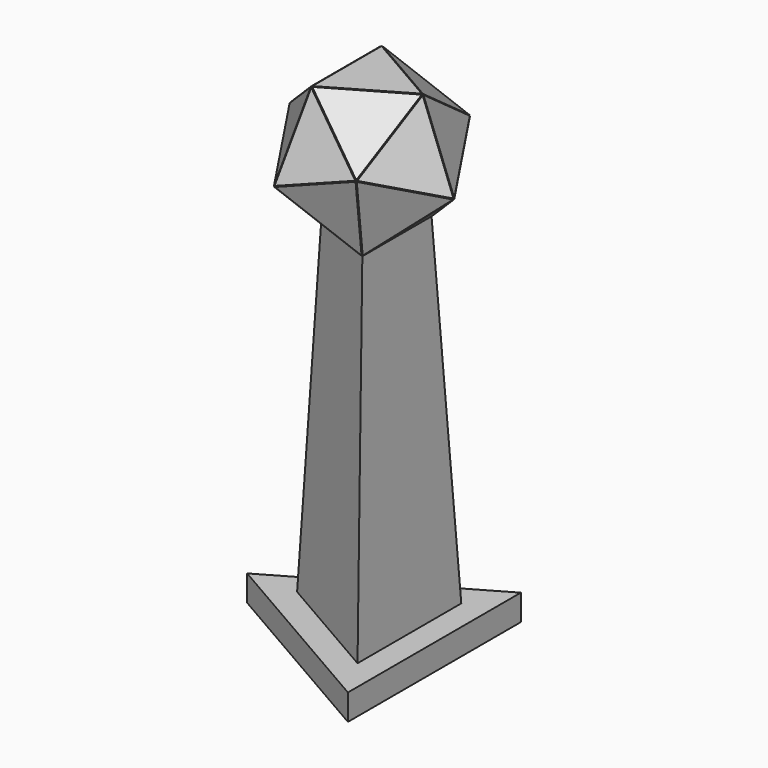
from build123d import *

# Parameters (mm, degrees)
F1_DEPTH  = 3
F4_ANGLE  = 138.2
F7_ANGLE  = 138.2
F10_ANGLE = 138.2
F14_ANGLE = -138.2
F16_ANGLE = 138.2
F19_ANGLE = 138.2
F21_COUNT = 3
F22_COUNT = 3
F23_COUNT = 3
F26_ANGLE = -138.2
F27_COUNT = 3
F30_ANGLE = 138.2
F31_COUNT = 3
F34_ANGLE = -138.2
F35_COUNT = 3
F39_ANGLE = -138.2
F45_DEPTH = 30


with BuildPart() as f1:
    # F0 (on Top) → F1 (new body)
    with BuildSketch(Plane.XY):
        Polygon((28.8675134595, -50), (28.8675134595, 50), (-57.735026919, 0), align=None)
    extrude(amount=F1_DEPTH)


with BuildPart() as f2_1:
    # F2: copy of F1
    add(f1.part)


with BuildPart() as f2_1_1:
    # F4: moved
    add(f2_1.part.rotate(Axis((-14.4337567297, -25, 1.5), (0.8660254038, -0.5, 0)), F4_ANGLE))


with BuildPart() as f5_1:
    # F5: copy of F1
    add(f1.part)


with BuildPart() as f5_1_1:
    # F7: moved
    add(f5_1.part.rotate(Axis((28.8675134595, 0, 1.5), (0, 1, 0)), F7_ANGLE))


with BuildPart() as f8_1:
    # F8: copy of F1
    add(f1.part)


with BuildPart() as f8_1_1:
    # F10: moved
    add(f8_1.part.rotate(Axis((-14.4337567297, 25, 1.5), (-0.8660254038, -0.5, 0)), F10_ANGLE))


with BuildPart() as f13_1:
    # F13: copy of F2_1
    add(f2_1_1.part)


with BuildPart() as f13_1_1:
    # F14: moved
    add(f13_1.part.rotate(Axis((-52.2244206653, -40.4553499881, 30.3617025842), (-0.1102121251, 0.8091069998, -0.5772340517)), F14_ANGLE))


with BuildPart() as f15_1:
    # F15: copy of F8_1
    add(f8_1_1.part)


with BuildPart() as f15_1_1:
    # F16: moved
    add(f15_1.part.rotate(Axis((-52.2244206653, 40.4553499881, 30.3617025842), (-0.1102121251, -0.8091069998, -0.5772340517)), F16_ANGLE))


with BuildPart() as f18_1:
    # F18: copy of F8_1
    add(f8_1_1.part)


with BuildPart() as f8_1_2:
    # F19: moved
    add(f8_1_1.part.rotate(Axis((-8.9231504761, 65.4553499881, 30.3617025842), (-0.7558132787, 0.3091069998, 0.5772340517)), F19_ANGLE))


with BuildPart() as f21_1:
    # F21: instance of F18_1
    add(f18_1.part.rotate(Axis((0, 0, 83.6571007967), (0, 0, 1)), 1 * 360 / F21_COUNT))


with BuildPart() as f21_2:
    # F21: instance of F18_1
    add(f18_1.part.rotate(Axis((0, 0, 83.6571007967), (0, 0, 1)), 2 * 360 / F21_COUNT))


with BuildPart() as f22_1:
    # F22: instance of F15_1
    add(f15_1_1.part.rotate(Axis((0, 0, 83.6571007967), (0, 0, 1)), 1 * 360 / F22_COUNT))


with BuildPart() as f22_2:
    # F22: instance of F15_1
    add(f15_1_1.part.rotate(Axis((0, 0, 83.6571007967), (0, 0, 1)), 2 * 360 / F22_COUNT))


with BuildPart() as f23_1:
    # F23: instance of F8_1
    add(f8_1_2.part.rotate(Axis((0, 0, 83.6571007967), (0, 0, 1)), 1 * 360 / F23_COUNT))


with BuildPart() as f23_2:
    # F23: instance of F8_1
    add(f8_1_2.part.rotate(Axis((0, 0, 83.6571007967), (0, 0, 1)), 2 * 360 / F23_COUNT))


with BuildPart() as f25_1:
    # F25: copy of F15_1
    add(f15_1_1.part)


with BuildPart() as f25_1_1:
    # F26: moved
    add(f25_1.part.rotate(Axis((-70.0765319079, 40.4654137064, 77.066113756), (0.4672543499, 0.8089057254, -0.3568541718)), F26_ANGLE))


with BuildPart() as f27_1:
    # F27: instance of F25_1
    add(f25_1_1.part.rotate(Axis((0, 0, 83.6571007967), (0, 0, 1)), 1 * 360 / F27_COUNT))


with BuildPart() as f27_2:
    # F27: instance of F25_1
    add(f25_1_1.part.rotate(Axis((0, 0, 83.6571007967), (0, 0, 1)), 2 * 360 / F27_COUNT))


with BuildPart() as f28_1:
    # F28: copy of F13_1
    add(f13_1_1.part)


with BuildPart() as f28_1_1:
    # F30: moved
    add(f28_1.part.rotate(Axis((-70.0765319079, -40.4654137064, 77.066113756), (0.4672543499, -0.8089057254, -0.3568541718)), F30_ANGLE))


with BuildPart() as f31_1:
    # F31: instance of F28_1
    add(f28_1_1.part.rotate(Axis((0, 0, 83.6571007967), (0, 0, 1)), 1 * 360 / F31_COUNT))


with BuildPart() as f31_2:
    # F31: instance of F28_1
    add(f28_1_1.part.rotate(Axis((0, 0, 83.6571007967), (0, 0, 1)), 2 * 360 / F31_COUNT))


with BuildPart() as f32_1:
    # F32: copy of F28_1
    add(f28_1_1.part)


with BuildPart() as f28_1_2:
    # F34: moved
    add(f28_1_1.part.rotate(Axis((-61.1744043061, -25.0263489681, 123.7821431695), (-0.645296902, 0.5001244306, -0.5774664165)), F34_ANGLE))


with BuildPart() as f35_1:
    # F35: instance of F28_1
    add(f28_1_2.part.rotate(Axis((0, 0, 83.6571007967), (0, 0, 1)), 1 * 360 / F35_COUNT))


with BuildPart() as f35_2:
    # F35: instance of F28_1
    add(f28_1_2.part.rotate(Axis((0, 0, 83.6571007967), (0, 0, 1)), 2 * 360 / F35_COUNT))


with BuildPart() as f36_1:
    # F36: copy of F28_1
    add(f28_1_2.part)


with BuildPart() as f37_1:
    # F37: copy of F28_1
    add(f28_1_2.part)


with BuildPart() as f28_1_3:
    # F39: moved
    add(f28_1_2.part.rotate(Axis((-28.9167455123, -0.0328565628, 152.6742646909), (-0.0001437269, 0.999999919, 0.000376016)), F39_ANGLE))


with BuildPart() as f37_1_1:
    # F39: moved
    add(f37_1.part.rotate(Axis((-28.9167455123, -0.0328565628, 152.6742646909), (-0.0001437269, 0.999999919, 0.000376016)), F39_ANGLE))


with BuildPart() as f1_1:
    add(f1.part)

    # F40 (on face) → F43 section 0
    with BuildSketch(Plane(origin=(0, 0, 0), x_dir=(1, 0, 0), z_dir=(0, 0, -1))):
        Polygon((28.8675134595, 50), (-57.735026919, 0), (28.8675134595, -50), align=None)
    # F42 (on offset) → F43 section 1
    with BuildSketch(Plane.XY.offset(-400)):
        Polygon((43.3012701892, -75), (43.3012701892, 75), (-86.6025403784, 0), align=None)
    loft()

    # F44 (on face) → F45 (join)
    with BuildSketch(Plane(origin=(0, 0, -400), x_dir=(1, 0, 0), z_dir=(0, 0, -1))):
        Polygon((72.1687836487, -125), (72.1687836487, 125), (-144.3375672974, 0), align=None)
        Polygon((-86.6025403784, 0), (43.3012701892, 75), (43.3012701892, -75), align=None, mode=Mode.SUBTRACT)
        Polygon((43.3012701892, -75), (43.3012701892, 75), (-86.6025403784, 0), align=None)
    extrude(amount=F45_DEPTH)


solid = Compound([f2_1_1.part, f5_1_1.part, f13_1_1.part, f15_1_1.part, f18_1.part, f8_1_2.part, f21_1.part, f21_2.part, f22_1.part, f22_2.part, f23_1.part, f23_2.part, f25_1_1.part, f27_1.part, f27_2.part, f31_1.part, f31_2.part, f32_1.part, f35_1.part, f35_2.part, f36_1.part, f28_1_3.part, f37_1_1.part, f1_1.part])
